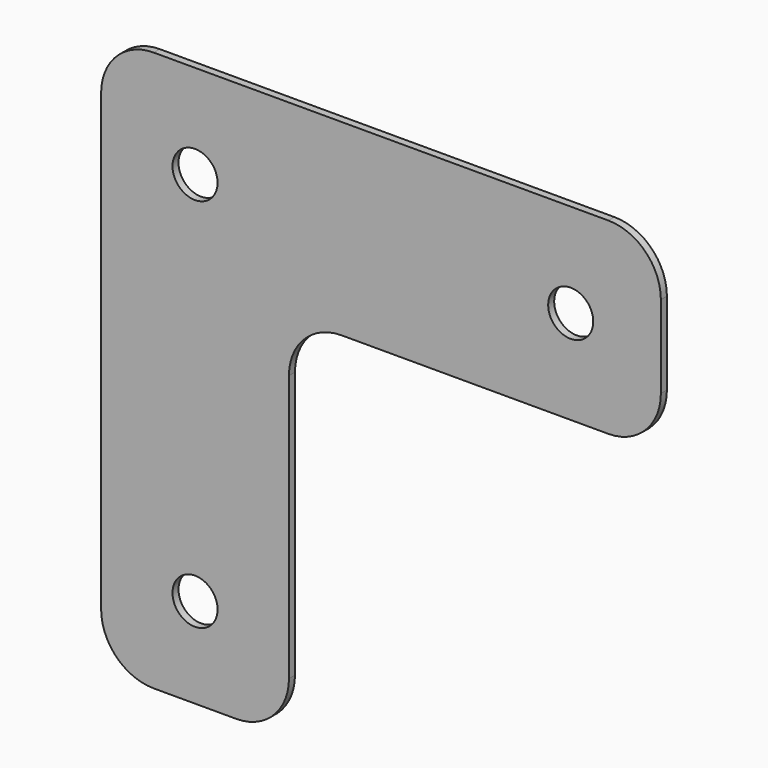
from build123d import *

# Parameters (mm, degrees)
F1_DEPTH = 1
F2_D     = 6


with BuildPart() as f1:
    # F0 (on Front) → F1 (new body)
    with BuildSketch(Plane.XZ):
        with BuildLine():
            Line((-54.0900086572, 22.3091947654), (-54.0900086572, -38.1908052346))
            ThreePointArc((-54.0900086572, -38.1908052346), (-52.0397561255, -43.1405527029), (-47.0900086572, -45.1908052346))
            Line((-47.0900086572, -45.1908052346), (-36.0900086572, -45.1908052346))
            ThreePointArc((-36.0900086572, -45.1908052346), (-31.1402611889, -43.1405527029), (-29.0900086572, -38.1908052346))
            Line((-29.0900086572, -38.1908052346), (-29.0900086572, -2.6908052346))
            ThreePointArc((-29.0900086572, -2.6908052346), (-27.0397561255, 2.2589422338), (-22.0900086572, 4.3091947654))
            Line((-22.0900086572, 4.3091947654), (13.4099913428, 4.3091947654))
            ThreePointArc((13.4099913428, 4.3091947654), (18.3597388111, 6.3594472971), (20.4099913428, 11.3091947654))
            Line((20.4099913428, 11.3091947654), (20.4099913428, 22.3091947654))
            ThreePointArc((20.4099913428, 22.3091947654), (18.3597388111, 27.2589422338), (13.4099913428, 29.3091947654))
            Line((13.4099913428, 29.3091947654), (-47.0900086572, 29.3091947654))
            ThreePointArc((-47.0900086572, 29.3091947654), (-52.0397561255, 27.2589422338), (-54.0900086572, 22.3091947654))
        make_face()
    extrude(amount=F1_DEPTH)

    # F2 (through all)
    with Locations(Plane(origin=(0, 0, 0), x_dir=(1, 0, 0), z_dir=(0, 1, 0))):
        with Locations((-41.5900086572, -16.8091947654), (8.4099913428, -16.8091947654), (-41.5900086572, 33.1908052346)):
            Hole(F2_D / 2)


solid = f1.part
